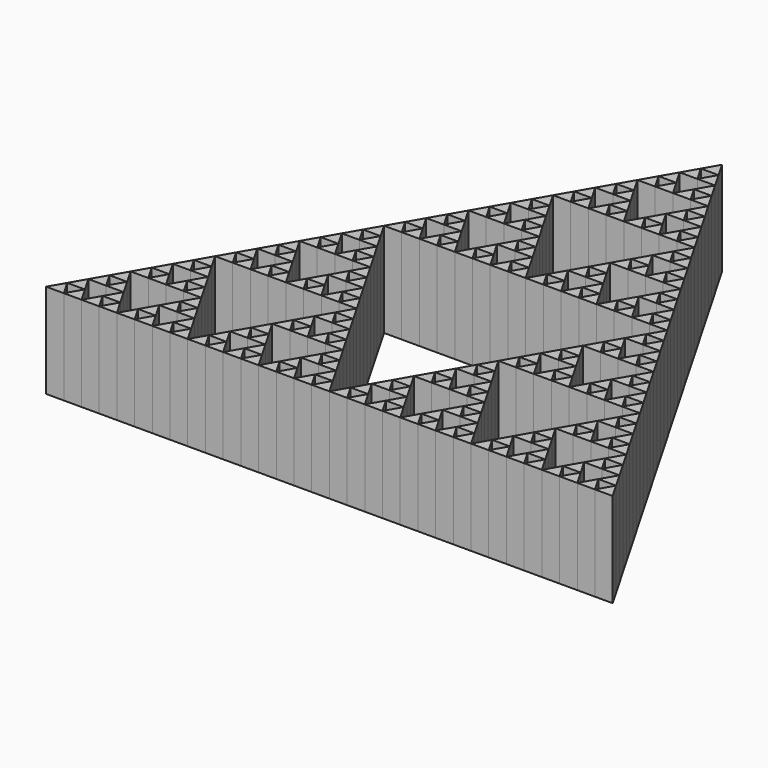
from build123d import *

# Parameters (mm, degrees)
F1_DEPTH = 12.7


with BuildPart() as f1:
    # F0 (on Top) → F1 (new body)
    with BuildSketch(Plane.XY):
        Polygon((255.183462, 100.643904), (253.992837, 102.706127), (252.802212, 100.643904), align=None)
        Polygon((257.564712, 100.643904), (256.374087, 102.706127), (255.183462, 100.643904), align=None)
        Polygon((256.374087, 102.706127), (255.183462, 104.76835), (253.992837, 102.706127), align=None)
        Polygon((257.564712, 104.76835), (256.374087, 106.830573), (255.183462, 104.76835), align=None)
        Polygon((259.945962, 104.76835), (258.755337, 106.830573), (257.564712, 104.76835), align=None)
        Polygon((258.755337, 106.830573), (257.564712, 108.892796), (256.374087, 106.830573), align=None)
        Polygon((259.945962, 100.643904), (258.755337, 102.706127), (257.564712, 100.643904), align=None)
        Polygon((261.136587, 102.706127), (259.945962, 104.76835), (258.755337, 102.706127), align=None)
        Polygon((262.327212, 100.643904), (261.136587, 102.706127), (259.945962, 100.643904), align=None)
        Polygon((252.802212, 100.643904), (251.611587, 102.706127), (250.420962, 100.643904), align=None)
        Polygon((251.611587, 102.706127), (250.420962, 104.76835), (249.230337, 102.706127), align=None)
        Polygon((250.420962, 100.643904), (249.230337, 102.706127), (248.039712, 100.643904), align=None)
        Polygon((248.039712, 100.643904), (246.849087, 102.706127), (245.658462, 100.643904), align=None)
        Polygon((245.658462, 100.643904), (244.467837, 102.706127), (243.277212, 100.643904), align=None)
        Polygon((246.849087, 102.706127), (245.658462, 104.76835), (244.467837, 102.706127), align=None)
        Polygon((248.039712, 104.76835), (246.849087, 106.830573), (245.658462, 104.76835), align=None)
        Polygon((250.420962, 104.76835), (249.230337, 106.830573), (248.039712, 104.76835), align=None)
        Polygon((249.230337, 106.830573), (248.039712, 108.892796), (246.849087, 106.830573), align=None)
        Polygon((250.420962, 108.892796), (249.230337, 110.955019), (248.039712, 108.892796), align=None)
        Polygon((252.802212, 108.892796), (251.611587, 110.955019), (250.420962, 108.892796), align=None)
        Polygon((251.611587, 110.955019), (250.420962, 113.017242), (249.230337, 110.955019), align=None)
        Polygon((255.183462, 108.892796), (253.992837, 110.955019), (252.802212, 108.892796), align=None)
        Polygon((257.564712, 108.892796), (256.374087, 110.955019), (255.183462, 108.892796), align=None)
        Polygon((256.374087, 110.955019), (255.183462, 113.017242), (253.992837, 110.955019), align=None)
        Polygon((255.183462, 113.017242), (253.992837, 115.079465), (252.802212, 113.017242), align=None)
        Polygon((252.802212, 113.017242), (251.611587, 115.079465), (250.420962, 113.017242), align=None)
        Polygon((253.992837, 115.079465), (252.802212, 117.141688), (251.611587, 115.079465), align=None)
        Polygon((243.277212, 100.643904), (242.086587, 102.706127), (240.895962, 100.643904), align=None)
        Polygon((240.895962, 100.643904), (239.705337, 102.706127), (238.514712, 100.643904), align=None)
        Polygon((242.086587, 102.706127), (240.895962, 104.76835), (239.705337, 102.706127), align=None)
        Polygon((238.514712, 100.643904), (237.324087, 102.706127), (236.133462, 100.643904), align=None)
        Polygon((236.133462, 100.643904), (234.942837, 102.706127), (233.752212, 100.643904), align=None)
        Polygon((237.324087, 102.706127), (236.133462, 104.76835), (234.942837, 102.706127), align=None)
        Polygon((238.514712, 104.76835), (237.324087, 106.830573), (236.133462, 104.76835), align=None)
        Polygon((240.895962, 104.76835), (239.705337, 106.830573), (238.514712, 104.76835), align=None)
        Polygon((239.705337, 106.830573), (238.514712, 108.892796), (237.324087, 106.830573), align=None)
        Polygon((238.514712, 108.892796), (237.324087, 110.955019), (236.133462, 108.892796), align=None)
        Polygon((236.133462, 108.892796), (234.942837, 110.955019), (233.752212, 108.892796), align=None)
        Polygon((237.324087, 110.955019), (236.133462, 113.017242), (234.942837, 110.955019), align=None)
        Polygon((236.133462, 113.017242), (234.942837, 115.079465), (233.752212, 113.017242), align=None)
        Polygon((234.942837, 115.079465), (233.752212, 117.141688), (232.561587, 115.079465), align=None)
        Polygon((233.752212, 113.017242), (232.561587, 115.079465), (231.370962, 113.017242), align=None)
        Polygon((232.561587, 110.955019), (231.370962, 113.017242), (230.180337, 110.955019), align=None)
        Polygon((233.752212, 108.892796), (232.561587, 110.955019), (231.370962, 108.892796), align=None)
        Polygon((231.370962, 108.892796), (230.180337, 110.955019), (228.989712, 108.892796), align=None)
        Polygon((230.180337, 106.830573), (228.989712, 108.892796), (227.799087, 106.830573), align=None)
        Polygon((231.370962, 104.76835), (230.180337, 106.830573), (228.989712, 104.76835), align=None)
        Polygon((228.989712, 104.76835), (227.799087, 106.830573), (226.608462, 104.76835), align=None)
        Polygon((227.799087, 102.706127), (226.608462, 104.76835), (225.417837, 102.706127), align=None)
        Polygon((228.989712, 100.643904), (227.799087, 102.706127), (226.608462, 100.643904), align=None)
        Polygon((226.608462, 100.643904), (225.417837, 102.706127), (224.227212, 100.643904), align=None)
        Polygon((231.370962, 100.643904), (230.180337, 102.706127), (228.989712, 100.643904), align=None)
        Polygon((233.752212, 100.643904), (232.561587, 102.706127), (231.370962, 100.643904), align=None)
        Polygon((232.561587, 102.706127), (231.370962, 104.76835), (230.180337, 102.706127), align=None)
        Polygon((243.277212, 117.141688), (242.086587, 119.203911), (240.895962, 117.141688), align=None)
        Polygon((240.895962, 117.141688), (239.705337, 119.203911), (238.514712, 117.141688), align=None)
        Polygon((242.086587, 119.203911), (240.895962, 121.266134), (239.705337, 119.203911), align=None)
        Polygon((240.895962, 121.266134), (239.705337, 123.328357), (238.514712, 121.266134), align=None)
        Polygon((239.705337, 123.328357), (238.514712, 125.39058), (237.324087, 123.328357), align=None)
        Polygon((238.514712, 121.266134), (237.324087, 123.328357), (236.133462, 121.266134), align=None)
        Polygon((237.324087, 119.203911), (236.133462, 121.266134), (234.942837, 119.203911), align=None)
        Polygon((238.514712, 117.141688), (237.324087, 119.203911), (236.133462, 117.141688), align=None)
        Polygon((236.133462, 117.141688), (234.942837, 119.203911), (233.752212, 117.141688), align=None)
        Polygon((245.658462, 117.141688), (244.467837, 119.203911), (243.277212, 117.141688), align=None)
        Polygon((248.039712, 117.141688), (246.849087, 119.203911), (245.658462, 117.141688), align=None)
        Polygon((248.039712, 121.266134), (246.849087, 123.328357), (245.658462, 121.266134), align=None)
        Polygon((250.420962, 121.266134), (249.230337, 123.328357), (248.039712, 121.266134), align=None)
        Polygon((249.230337, 123.328357), (248.039712, 125.39058), (246.849087, 123.328357), align=None)
        Polygon((246.849087, 119.203911), (245.658462, 121.266134), (244.467837, 119.203911), align=None)
        Polygon((250.420962, 117.141688), (249.230337, 119.203911), (248.039712, 117.141688), align=None)
        Polygon((252.802212, 117.141688), (251.611587, 119.203911), (250.420962, 117.141688), align=None)
        Polygon((251.611587, 119.203911), (250.420962, 121.266134), (249.230337, 119.203911), align=None)
        Polygon((248.039712, 125.39058), (246.849087, 127.452803), (245.658462, 125.39058), align=None)
        Polygon((246.849087, 127.452803), (245.658462, 129.515026), (244.467837, 127.452803), align=None)
        Polygon((245.658462, 125.39058), (244.467837, 127.452803), (243.277212, 125.39058), align=None)
        Polygon((243.277212, 125.39058), (242.086587, 127.452803), (240.895962, 125.39058), align=None)
        Polygon((242.086587, 127.452803), (240.895962, 129.515026), (239.705337, 127.452803), align=None)
        Polygon((240.895962, 125.39058), (239.705337, 127.452803), (238.514712, 125.39058), align=None)
        Polygon((243.277212, 129.515026), (242.086587, 131.577249), (240.895962, 129.515026), align=None)
        Polygon((245.658462, 129.515026), (244.467837, 131.577249), (243.277212, 129.515026), align=None)
        Polygon((244.467837, 131.577249), (243.277212, 133.639472), (242.086587, 131.577249), align=None)
        Polygon((262.327212, 133.639472), (261.136587, 135.701695), (259.945962, 133.639472), align=None)
        Polygon((259.945962, 133.639472), (258.755337, 135.701695), (257.564712, 133.639472), align=None)
        Polygon((261.136587, 135.701695), (259.945962, 137.763918), (258.755337, 135.701695), align=None)
        Polygon((259.945962, 137.763918), (258.755337, 139.826141), (257.564712, 137.763918), align=None)
        Polygon((257.564712, 137.763918), (256.374087, 139.826141), (255.183462, 137.763918), align=None)
        Polygon((258.755337, 139.826141), (257.564712, 141.888364), (256.374087, 139.826141), align=None)
        Polygon((257.564712, 133.639472), (256.374087, 135.701695), (255.183462, 133.639472), align=None)
        Polygon((255.183462, 133.639472), (253.992837, 135.701695), (252.802212, 133.639472), align=None)
        Polygon((256.374087, 135.701695), (255.183462, 137.763918), (253.992837, 135.701695), align=None)
        Polygon((252.802212, 133.639472), (251.611587, 135.701695), (250.420962, 133.639472), align=None)
        Polygon((251.611587, 135.701695), (250.420962, 137.763918), (249.230337, 135.701695), align=None)
        Polygon((250.420962, 133.639472), (249.230337, 135.701695), (248.039712, 133.639472), align=None)
        Polygon((248.039712, 133.639472), (246.849087, 135.701695), (245.658462, 133.639472), align=None)
        Polygon((246.849087, 135.701695), (245.658462, 137.763918), (244.467837, 135.701695), align=None)
        Polygon((245.658462, 133.639472), (244.467837, 135.701695), (243.277212, 133.639472), align=None)
        Polygon((248.039712, 137.763918), (246.849087, 139.826141), (245.658462, 137.763918), align=None)
        Polygon((250.420962, 137.763918), (249.230337, 139.826141), (248.039712, 137.763918), align=None)
        Polygon((249.230337, 139.826141), (248.039712, 141.888364), (246.849087, 139.826141), align=None)
        Polygon((257.564712, 141.888364), (256.374087, 143.950587), (255.183462, 141.888364), align=None)
        Polygon((255.183462, 141.888364), (253.992837, 143.950587), (252.802212, 141.888364), align=None)
        Polygon((256.374087, 143.950587), (255.183462, 146.01281), (253.992837, 143.950587), align=None)
        Polygon((255.183462, 146.01281), (253.992837, 148.075033), (252.802212, 146.01281), align=None)
        Polygon((253.992837, 148.075033), (252.802212, 150.137256), (251.611587, 148.075033), align=None)
        Polygon((252.802212, 146.01281), (251.611587, 148.075033), (250.420962, 146.01281), align=None)
        Polygon((251.611587, 143.950587), (250.420962, 146.01281), (249.230337, 143.950587), align=None)
        Polygon((252.802212, 141.888364), (251.611587, 143.950587), (250.420962, 141.888364), align=None)
        Polygon((250.420962, 141.888364), (249.230337, 143.950587), (248.039712, 141.888364), align=None)
        Polygon((264.708462, 133.639472), (263.517837, 135.701695), (262.327212, 133.639472), align=None)
        Polygon((267.089712, 133.639472), (265.899087, 135.701695), (264.708462, 133.639472), align=None)
        Polygon((265.899087, 135.701695), (264.708462, 137.763918), (263.517837, 135.701695), align=None)
        Polygon((269.470962, 133.639472), (268.280337, 135.701695), (267.089712, 133.639472), align=None)
        Polygon((271.852212, 133.639472), (270.661587, 135.701695), (269.470962, 133.639472), align=None)
        Polygon((270.661587, 135.701695), (269.470962, 137.763918), (268.280337, 135.701695), align=None)
        Polygon((269.470962, 137.763918), (268.280337, 139.826141), (267.089712, 137.763918), align=None)
        Polygon((267.089712, 137.763918), (265.899087, 139.826141), (264.708462, 137.763918), align=None)
        Polygon((268.280337, 139.826141), (267.089712, 141.888364), (265.899087, 139.826141), align=None)
        Polygon((269.470962, 141.888364), (268.280337, 143.950587), (267.089712, 141.888364), align=None)
        Polygon((271.852212, 141.888364), (270.661587, 143.950587), (269.470962, 141.888364), align=None)
        Polygon((270.661587, 143.950587), (269.470962, 146.01281), (268.280337, 143.950587), align=None)
        Polygon((275.424087, 143.950587), (274.233462, 146.01281), (273.042837, 143.950587), align=None)
        Polygon((274.233462, 141.888364), (273.042837, 143.950587), (271.852212, 141.888364), align=None)
        Polygon((276.614712, 141.888364), (275.424087, 143.950587), (274.233462, 141.888364), align=None)
        Polygon((277.805337, 139.826141), (276.614712, 141.888364), (275.424087, 139.826141), align=None)
        Polygon((276.614712, 137.763918), (275.424087, 139.826141), (274.233462, 137.763918), align=None)
        Polygon((278.995962, 137.763918), (277.805337, 139.826141), (276.614712, 137.763918), align=None)
        Polygon((275.424087, 135.701695), (274.233462, 137.763918), (273.042837, 135.701695), align=None)
        Polygon((274.233462, 133.639472), (273.042837, 135.701695), (271.852212, 133.639472), align=None)
        Polygon((276.614712, 133.639472), (275.424087, 135.701695), (274.233462, 133.639472), align=None)
        Polygon((278.995962, 133.639472), (277.805337, 135.701695), (276.614712, 133.639472), align=None)
        Polygon((281.377212, 133.639472), (280.186587, 135.701695), (278.995962, 133.639472), align=None)
        Polygon((280.186587, 135.701695), (278.995962, 137.763918), (277.805337, 135.701695), align=None)
        Polygon((271.852212, 150.137256), (270.661587, 152.199479), (269.470962, 150.137256), align=None)
        Polygon((274.233462, 146.01281), (273.042837, 148.075033), (271.852212, 146.01281), align=None)
        Polygon((271.852212, 146.01281), (270.661587, 148.075033), (269.470962, 146.01281), align=None)
        Polygon((273.042837, 148.075033), (271.852212, 150.137256), (270.661587, 148.075033), align=None)
        Polygon((269.470962, 150.137256), (268.280337, 152.199479), (267.089712, 150.137256), align=None)
        Polygon((267.089712, 150.137256), (265.899087, 152.199479), (264.708462, 150.137256), align=None)
        Polygon((265.899087, 152.199479), (264.708462, 154.261702), (263.517837, 152.199479), align=None)
        Polygon((264.708462, 150.137256), (263.517837, 152.199479), (262.327212, 150.137256), align=None)
        Polygon((270.661587, 152.199479), (269.470962, 154.261702), (268.280337, 152.199479), align=None)
        Polygon((269.470962, 154.261702), (268.280337, 156.323925), (267.089712, 154.261702), align=None)
        Polygon((267.089712, 154.261702), (265.899087, 156.323925), (264.708462, 154.261702), align=None)
        Polygon((268.280337, 156.323925), (267.089712, 158.386148), (265.899087, 156.323925), align=None)
        Polygon((267.089712, 158.386148), (265.899087, 160.448371), (264.708462, 158.386148), align=None)
        Polygon((264.708462, 158.386148), (263.517837, 160.448371), (262.327212, 158.386148), align=None)
        Polygon((265.899087, 160.448371), (264.708462, 162.510594), (263.517837, 160.448371), align=None)
        Polygon((264.708462, 162.510594), (263.517837, 164.572817), (262.327212, 162.510594), align=None)
        Polygon((262.327212, 162.510594), (261.136587, 164.572817), (259.945962, 162.510594), align=None)
        Polygon((263.517837, 164.572817), (262.327212, 166.63504), (261.136587, 164.572817), align=None)
        Polygon((262.327212, 158.386148), (261.136587, 160.448371), (259.945962, 158.386148), align=None)
        Polygon((261.136587, 160.448371), (259.945962, 162.510594), (258.755337, 160.448371), align=None)
        Polygon((259.945962, 158.386148), (258.755337, 160.448371), (257.564712, 158.386148), align=None)
        Polygon((258.755337, 156.323925), (257.564712, 158.386148), (256.374087, 156.323925), align=None)
        Polygon((259.945962, 154.261702), (258.755337, 156.323925), (257.564712, 154.261702), align=None)
        Polygon((257.564712, 154.261702), (256.374087, 156.323925), (255.183462, 154.261702), align=None)
        Polygon((256.374087, 152.199479), (255.183462, 154.261702), (253.992837, 152.199479), align=None)
        Polygon((255.183462, 150.137256), (253.992837, 152.199479), (252.802212, 150.137256), align=None)
        Polygon((257.564712, 150.137256), (256.374087, 152.199479), (255.183462, 150.137256), align=None)
        Polygon((259.945962, 150.137256), (258.755337, 152.199479), (257.564712, 150.137256), align=None)
        Polygon((262.327212, 150.137256), (261.136587, 152.199479), (259.945962, 150.137256), align=None)
        Polygon((261.136587, 152.199479), (259.945962, 154.261702), (258.755337, 152.199479), align=None)
        Polygon((278.995962, 117.141688), (277.805337, 119.203911), (276.614712, 117.141688), align=None)
        Polygon((281.377212, 117.141688), (280.186587, 119.203911), (278.995962, 117.141688), align=None)
        Polygon((280.186587, 119.203911), (278.995962, 121.266134), (277.805337, 119.203911), align=None)
        Polygon((276.614712, 117.141688), (275.424087, 119.203911), (274.233462, 117.141688), align=None)
        Polygon((274.233462, 117.141688), (273.042837, 119.203911), (271.852212, 117.141688), align=None)
        Polygon((275.424087, 119.203911), (274.233462, 121.266134), (273.042837, 119.203911), align=None)
        Polygon((276.614712, 121.266134), (275.424087, 123.328357), (274.233462, 121.266134), align=None)
        Polygon((278.995962, 121.266134), (277.805337, 123.328357), (276.614712, 121.266134), align=None)
        Polygon((277.805337, 123.328357), (276.614712, 125.39058), (275.424087, 123.328357), align=None)
        Polygon((278.995962, 125.39058), (277.805337, 127.452803), (276.614712, 125.39058), align=None)
        Polygon((281.377212, 125.39058), (280.186587, 127.452803), (278.995962, 125.39058), align=None)
        Polygon((280.186587, 127.452803), (278.995962, 129.515026), (277.805337, 127.452803), align=None)
        Polygon((281.377212, 129.515026), (280.186587, 131.577249), (278.995962, 129.515026), align=None)
        Polygon((283.758462, 129.515026), (282.567837, 131.577249), (281.377212, 129.515026), align=None)
        Polygon((282.567837, 131.577249), (281.377212, 133.639472), (280.186587, 131.577249), align=None)
        Polygon((284.949087, 127.452803), (283.758462, 129.515026), (282.567837, 127.452803), align=None)
        Polygon((283.758462, 125.39058), (282.567837, 127.452803), (281.377212, 125.39058), align=None)
        Polygon((286.139712, 125.39058), (284.949087, 127.452803), (283.758462, 125.39058), align=None)
        Polygon((287.330337, 123.328357), (286.139712, 125.39058), (284.949087, 123.328357), align=None)
        Polygon((286.139712, 121.266134), (284.949087, 123.328357), (283.758462, 121.266134), align=None)
        Polygon((284.949087, 119.203911), (283.758462, 121.266134), (282.567837, 119.203911), align=None)
        Polygon((283.758462, 117.141688), (282.567837, 119.203911), (281.377212, 117.141688), align=None)
        Polygon((286.139712, 117.141688), (284.949087, 119.203911), (283.758462, 117.141688), align=None)
        Polygon((288.520962, 117.141688), (287.330337, 119.203911), (286.139712, 117.141688), align=None)
        Polygon((290.902212, 117.141688), (289.711587, 119.203911), (288.520962, 117.141688), align=None)
        Polygon((289.711587, 119.203911), (288.520962, 121.266134), (287.330337, 119.203911), align=None)
        Polygon((288.520962, 121.266134), (287.330337, 123.328357), (286.139712, 121.266134), align=None)
        Polygon((273.042837, 115.079465), (271.852212, 117.141688), (270.661587, 115.079465), align=None)
        Polygon((271.852212, 113.017242), (270.661587, 115.079465), (269.470962, 113.017242), align=None)
        Polygon((274.233462, 113.017242), (273.042837, 115.079465), (271.852212, 113.017242), align=None)
        Polygon((275.424087, 110.955019), (274.233462, 113.017242), (273.042837, 110.955019), align=None)
        Polygon((274.233462, 108.892796), (273.042837, 110.955019), (271.852212, 108.892796), align=None)
        Polygon((276.614712, 108.892796), (275.424087, 110.955019), (274.233462, 108.892796), align=None)
        Polygon((270.661587, 110.955019), (269.470962, 113.017242), (268.280337, 110.955019), align=None)
        Polygon((269.470962, 108.892796), (268.280337, 110.955019), (267.089712, 108.892796), align=None)
        Polygon((271.852212, 108.892796), (270.661587, 110.955019), (269.470962, 108.892796), align=None)
        Polygon((268.280337, 106.830573), (267.089712, 108.892796), (265.899087, 106.830573), align=None)
        Polygon((267.089712, 104.76835), (265.899087, 106.830573), (264.708462, 104.76835), align=None)
        Polygon((269.470962, 104.76835), (268.280337, 106.830573), (267.089712, 104.76835), align=None)
        Polygon((265.899087, 102.706127), (264.708462, 104.76835), (263.517837, 102.706127), align=None)
        Polygon((264.708462, 100.643904), (263.517837, 102.706127), (262.327212, 100.643904), align=None)
        Polygon((267.089712, 100.643904), (265.899087, 102.706127), (264.708462, 100.643904), align=None)
        Polygon((270.661587, 102.706127), (269.470962, 104.76835), (268.280337, 102.706127), align=None)
        Polygon((269.470962, 100.643904), (268.280337, 102.706127), (267.089712, 100.643904), align=None)
        Polygon((271.852212, 100.643904), (270.661587, 102.706127), (269.470962, 100.643904), align=None)
        Polygon((277.805337, 106.830573), (276.614712, 108.892796), (275.424087, 106.830573), align=None)
        Polygon((275.424087, 102.706127), (274.233462, 104.76835), (273.042837, 102.706127), align=None)
        Polygon((274.233462, 100.643904), (273.042837, 102.706127), (271.852212, 100.643904), align=None)
        Polygon((276.614712, 100.643904), (275.424087, 102.706127), (274.233462, 100.643904), align=None)
        Polygon((280.186587, 102.706127), (278.995962, 104.76835), (277.805337, 102.706127), align=None)
        Polygon((278.995962, 100.643904), (277.805337, 102.706127), (276.614712, 100.643904), align=None)
        Polygon((281.377212, 100.643904), (280.186587, 102.706127), (278.995962, 100.643904), align=None)
        Polygon((278.995962, 104.76835), (277.805337, 106.830573), (276.614712, 104.76835), align=None)
        Polygon((276.614712, 104.76835), (275.424087, 106.830573), (274.233462, 104.76835), align=None)
        Polygon((288.520962, 100.643904), (287.330337, 102.706127), (286.139712, 100.643904), align=None)
        Polygon((290.902212, 100.643904), (289.711587, 102.706127), (288.520962, 100.643904), align=None)
        Polygon((289.711587, 102.706127), (288.520962, 104.76835), (287.330337, 102.706127), align=None)
        Polygon((288.520962, 104.76835), (287.330337, 106.830573), (286.139712, 104.76835), align=None)
        Polygon((287.330337, 106.830573), (286.139712, 108.892796), (284.949087, 106.830573), align=None)
        Polygon((286.139712, 104.76835), (284.949087, 106.830573), (283.758462, 104.76835), align=None)
        Polygon((284.949087, 102.706127), (283.758462, 104.76835), (282.567837, 102.706127), align=None)
        Polygon((286.139712, 100.643904), (284.949087, 102.706127), (283.758462, 100.643904), align=None)
        Polygon((283.758462, 100.643904), (282.567837, 102.706127), (281.377212, 100.643904), align=None)
        Polygon((293.283462, 100.643904), (292.092837, 102.706127), (290.902212, 100.643904), align=None)
        Polygon((295.664712, 100.643904), (294.474087, 102.706127), (293.283462, 100.643904), align=None)
        Polygon((294.474087, 102.706127), (293.283462, 104.76835), (292.092837, 102.706127), align=None)
        Polygon((295.664712, 104.76835), (294.474087, 106.830573), (293.283462, 104.76835), align=None)
        Polygon((298.045962, 104.76835), (296.855337, 106.830573), (295.664712, 104.76835), align=None)
        Polygon((296.855337, 106.830573), (295.664712, 108.892796), (294.474087, 106.830573), align=None)
        Polygon((298.045962, 100.643904), (296.855337, 102.706127), (295.664712, 100.643904), align=None)
        Polygon((299.236587, 102.706127), (298.045962, 104.76835), (296.855337, 102.706127), align=None)
        Polygon((300.427212, 100.643904), (299.236587, 102.706127), (298.045962, 100.643904), align=None)
        Polygon((295.664712, 108.892796), (294.474087, 110.955019), (293.283462, 108.892796), align=None)
        Polygon((293.283462, 108.892796), (292.092837, 110.955019), (290.902212, 108.892796), align=None)
        Polygon((294.474087, 110.955019), (293.283462, 113.017242), (292.092837, 110.955019), align=None)
        Polygon((293.283462, 113.017242), (292.092837, 115.079465), (290.902212, 113.017242), align=None)
        Polygon((292.092837, 115.079465), (290.902212, 117.141688), (289.711587, 115.079465), align=None)
        Polygon((290.902212, 113.017242), (289.711587, 115.079465), (288.520962, 113.017242), align=None)
        Polygon((289.711587, 110.955019), (288.520962, 113.017242), (287.330337, 110.955019), align=None)
        Polygon((290.902212, 108.892796), (289.711587, 110.955019), (288.520962, 108.892796), align=None)
        Polygon((288.520962, 108.892796), (287.330337, 110.955019), (286.139712, 108.892796), align=None)
    extrude(amount=F1_DEPTH)


solid = f1.part
